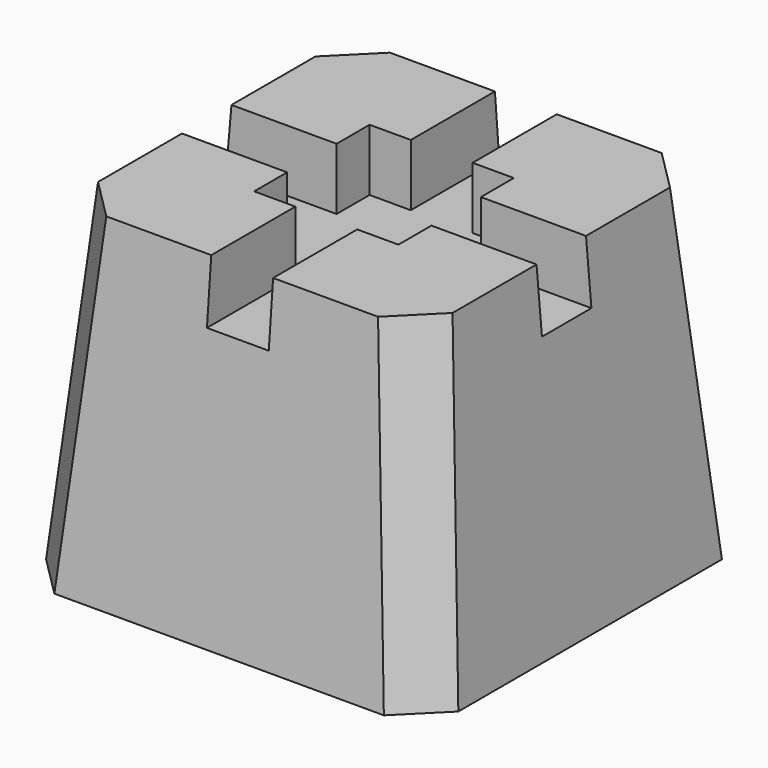
from build123d import *

# Parameters (mm, degrees)
F0_W     = 254
F0_H     = 254
F1_DEPTH = 203.2
F1_TAPER = 5
F2_SIZE  = 25.4
F4_DEPTH = 38.1


with BuildPart() as f1:
    # F0 (on Top) → F1 (new body)
    with BuildSketch(Plane.XY):
        Rectangle(F0_W, F0_H)
    extrude(amount=F1_DEPTH, taper=F1_TAPER)

    # F2
    f2_edges = [f1.edges().sort_by_distance(p)[0] for p in [
        (-118.111152, -118.111152, 101.6),
        (118.111152, -118.111152, 101.6),
        (118.111152, 118.111152, 101.6),
        (-118.111152, 118.111152, 101.6),
    ]]
    chamfer(f2_edges, length=F2_SIZE)

    # F3 (on face) → F4 (cut)
    with BuildSketch(Plane.XY.offset(203.2)):
        Polygon((19.05, 44.45), (19.05, 132.0214867592), (-19.05, 132.0214867592), (-19.05, 44.45), (-44.45, 44.45), (-44.45, 19.05), (-137.8337591887, 19.05), (-137.8337591887, -19.05), (-44.45, -19.05), (-44.45, -44.45), (-19.05, -44.45), (-19.05, -130.3608417511), (19.05, -130.3608417511), (19.05, -44.45), (44.45, -44.45), (44.45, -19.05), (136.5052312613, -19.05), (136.5052312613, 19.05), (44.45, 19.05), (44.45, 44.45), align=None)
    extrude(amount=-F4_DEPTH, mode=Mode.SUBTRACT)


solid = f1.part
